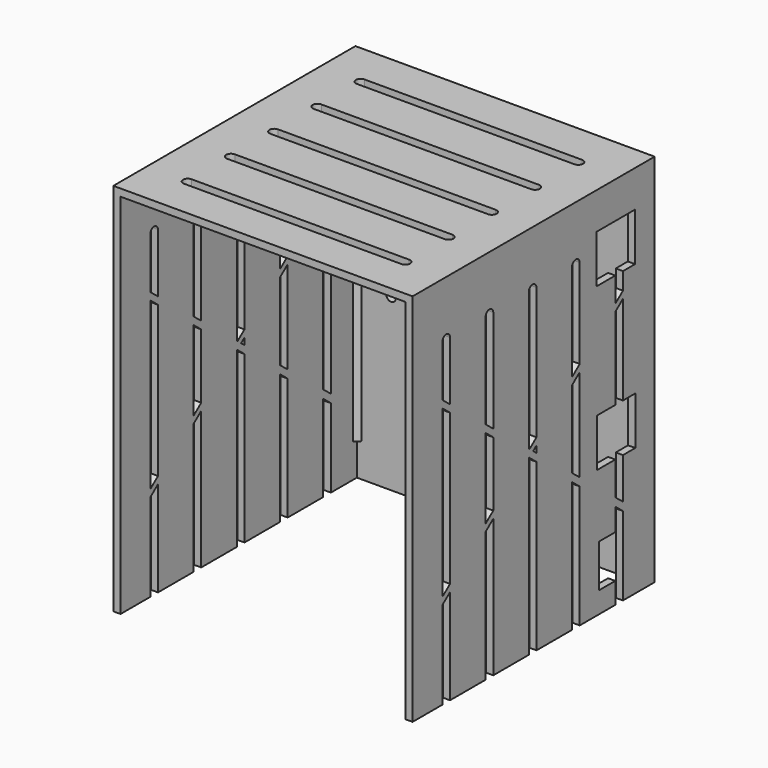
from build123d import *

# Parameters (mm, degrees)
PAD004_DEPTH           = 153
PAD005_DEPTH           = 139
SKETCH007_W            = 124.6
SKETCH007_H            = 126
PAD006_DEPTH           = 3
POCKET002_DEPTH        = 124.601
LINEARPATTERN001_COUNT = 5
LINEARPATTERN001_PITCH = 22.5
POCKET003_DEPTH        = 4
LINEARPATTERN002_COUNT = 5
LINEARPATTERN002_PITCH = 22.5
SKETCH015_R            = 2
POCKET006_DEPTH        = 5
SKETCH016_W            = 12.436569
SKETCH016_H            = 17.864411
SKETCH016_W_2          = 20
SKETCH016_H_2          = 20
POCKET008_DEPTH        = 5
PAD007_DEPTH           = 3
PAD008_DEPTH           = 3


with BuildPart() as part:
    # Sketch006 → Pad004 (new body)
    with BuildSketch(Plane.XY):
        Polygon((62.3, 64.5), (-62.3, 64.5), (-62.3, -61.5), (-59.3, -61.5), (-59.3, 61.5), (59.3, 61.5), (59.3, -61.5), (62.3, -61.5), align=None)
    extrude(amount=PAD004_DEPTH)

    # Sketch008 (on DatumPlane) → Pad005 (join)
    with BuildSketch(Plane.XY.offset(153)):
        Polygon((-59.3, 59.5), (-57.299999, 61.5), (-59.3, 61.5), align=None)
    pad005 = extrude(amount=-PAD005_DEPTH)

    # Mirrored001: Pad005 across Sketch008 V_Axis
    add(pad005.mirror(Plane(origin=(0, 0, 153), x_dir=(0, 0, 1), z_dir=(1, 0, 0))))

    # Sketch007 (on DatumPlane) → Pad006 (join)
    with BuildSketch(Plane.XY.offset(153)):
        with Locations((0, 1.5)):
            Rectangle(SKETCH007_W, SKETCH007_H)
    extrude(amount=PAD006_DEPTH)

    # Sketch010 (on DatumPlane) → Pocket002 (cut, through all)
    with BuildSketch(Plane.YZ.offset(62.3)):
        with BuildLine():
            Line((-46, -89.527603), (-46, 133))
            ThreePointArc((-42, 133), (-44, 135), (-46, 133))
            Line((-42, 133), (-42, -89.527603))
            ThreePointArc((-46, -89.527603), (-44, -91.527603), (-42, -89.527603))
        make_face()
    pocket002 = extrude(amount=-POCKET002_DEPTH, mode=Mode.SUBTRACT)

    # LinearPattern001: Pocket002 ×5
    with Locations(*[(0, i * LINEARPATTERN001_PITCH, 0) for i in range(1, LINEARPATTERN001_COUNT)]):
        add(pocket002, mode=Mode.SUBTRACT)

    # Sketch011 (on Face13 of Pad006) → Pocket003 (cut)
    with BuildSketch(Plane.XY.offset(156)):
        with BuildLine():
            Line((-45.3, -42), (45.3, -42))
            ThreePointArc((45.3, -46), (47.3, -44), (45.3, -42))
            Line((45.3, -46), (-45.3, -46))
            ThreePointArc((-45.3, -42), (-47.3, -44), (-45.3, -46))
        make_face()
    pocket003 = extrude(amount=-POCKET003_DEPTH, mode=Mode.SUBTRACT)

    # LinearPattern002: Pocket003 ×5
    with Locations(*[(0, i * LINEARPATTERN002_PITCH, 0) for i in range(1, LINEARPATTERN002_COUNT)]):
        add(pocket003, mode=Mode.SUBTRACT)

    # Sketch015 (on DatumPlane) → Pocket006 (cut)
    with BuildSketch(Plane.XZ.offset(-64.5)):
        with Locations((-45.035357, 71.063824)):
            Circle(SKETCH015_R)
        with BuildLine():
            Line((-27.322272, 78.383734), (-27.322272, 133))
            ThreePointArc((-23.322272, 133), (-25.322272, 135), (-27.322272, 133))
            Line((-23.322272, 133), (-23.322272, 78.383734))
            ThreePointArc((-27.322272, 78.383734), (-25.322272, 76.383734), (-23.322272, 78.383734))
        make_face()
        with BuildLine():
            Line((-12.322272, 78.383734), (-12.322272, 133))
            ThreePointArc((-8.322272, 133), (-10.322272, 135), (-12.322272, 133))
            Line((-8.322272, 133), (-8.322272, 78.383734))
            ThreePointArc((-12.322272, 78.383734), (-10.322272, 76.383734), (-8.322272, 78.383734))
        make_face()
        with BuildLine():
            Line((2.677728, 78.383734), (2.677728, 133))
            ThreePointArc((6.677728, 133), (4.677728, 135), (2.677728, 133))
            Line((6.677728, 133), (6.677728, 78.383734))
            ThreePointArc((2.677728, 78.383734), (4.677728, 76.383734), (6.677728, 78.383734))
        make_face()
        with BuildLine():
            Line((-42.322272, 78.383734), (-42.322272, 133))
            ThreePointArc((-38.322272, 133), (-40.322272, 135), (-42.322272, 133))
            Line((-38.322272, 133), (-38.322272, 78.383734))
            ThreePointArc((-42.322272, 78.383734), (-40.322272, 76.383734), (-38.322272, 78.383734))
        make_face()
    extrude(amount=POCKET006_DEPTH, mode=Mode.SUBTRACT)

    # Sketch016 (on DatumPlane) → Pocket008 (cut)
    with BuildSketch(Plane.YZ.offset(62.3)):
        with Locations((41.675534, 17.748693)):
            Rectangle(SKETCH016_W, SKETCH016_H)
        with Locations((44.407095, 63.300186)):
            Rectangle(SKETCH016_W_2, SKETCH016_H_2)
        with Locations((44.279243, 130.745399)):
            Rectangle(SKETCH016_W_2, SKETCH016_H_2)
    extrude(amount=-POCKET008_DEPTH, mode=Mode.SUBTRACT)

    # Sketch017 (on DatumPlane) → Pad007 (join)
    with BuildSketch(Plane.YZ.offset(62.3)):
        Polygon((55.794507, 119.712103), (-56.964375, 30.887549), (-56.964375, 27.887549), (55.794507, 116.712103), align=None)
        Polygon((54.067337, 31.341833), (-55.976406, 119.712103), (-55.976406, 116.712103), (54.067337, 27.887549), align=None)
    extrude(amount=-PAD007_DEPTH)

    # Sketch018 (on DatumPlane) → Pad008 (join)
    with BuildSketch(Plane.YZ.offset(-62.3)):
        Polygon((55.794507, 119.712103), (-56.964375, 30.887549), (-56.964375, 27.887549), (55.794507, 116.712103), align=None)
        Polygon((54.067337, 31.341833), (-55.976406, 119.712103), (-55.976406, 116.712103), (54.067337, 27.887549), align=None)
    extrude(amount=PAD008_DEPTH)


with BuildPart() as part_1:
    # Body001 placement: moved
    add(part.part.moved(Location((1.4, 0, 110.1))))


solid = part_1.part
